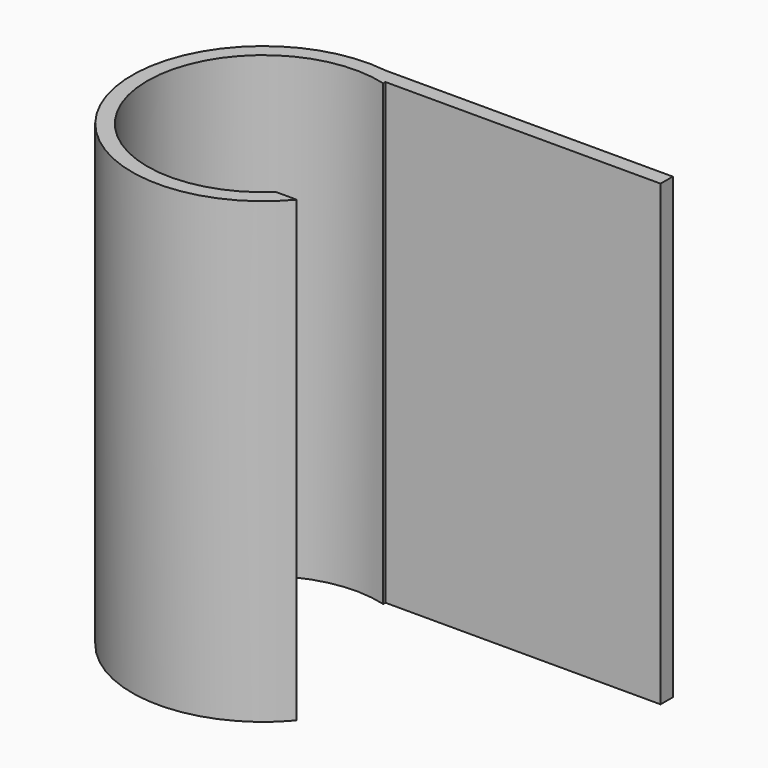
from build123d import *

# Parameters (mm, degrees)
BOX006_W          = 15
BOX006_H          = 26
BOX006_DEPTH      = 64
CYLINDER023_R     = 15.17
CYLINDER023_DEPTH = 64
BOX005_W          = 40
BOX005_H          = 2
BOX005_DEPTH      = 60
CYLINDER022_R     = 17.17
CYLINDER022_DEPTH = 60


with BuildPart() as cube004:
    # Box006 → Box006 (new body)
    with BuildSketch(Plane(origin=(4, -11, -2), x_dir=(1, 0, 0), z_dir=(0, 0, 1))):
        with Locations((7.5, 13)):
            Rectangle(BOX006_W, BOX006_H)
    extrude(amount=BOX006_DEPTH)


with BuildPart() as fusion002003003009:
    # Cylinder023 → Cylinder023 (new body)
    with BuildSketch(Plane.XY.offset(-2)):
        Circle(CYLINDER023_R)
    extrude(amount=CYLINDER023_DEPTH)

    # Fusion002003003009: union Cube004
    add(cube004.part)


with BuildPart() as cube003:
    # Box005 → Box005 (new body)
    with BuildSketch(Plane(origin=(0, 15, 0), x_dir=(1, 0, 0), z_dir=(0, 0, 1))):
        with Locations((20, 1)):
            Rectangle(BOX005_W, BOX005_H)
    extrude(amount=BOX005_DEPTH)


with BuildPart() as obj1:
    # Cylinder022 → Cylinder022 (new body)
    with BuildSketch(Plane.XY):
        Circle(CYLINDER022_R)
    extrude(amount=CYLINDER022_DEPTH)

    # Fusion002003003010: union Cube003
    add(cube003.part)

    # Cut001011003002: cut Fusion002003003009
    add(fusion002003003009.part, mode=Mode.SUBTRACT)


solid = obj1.part
